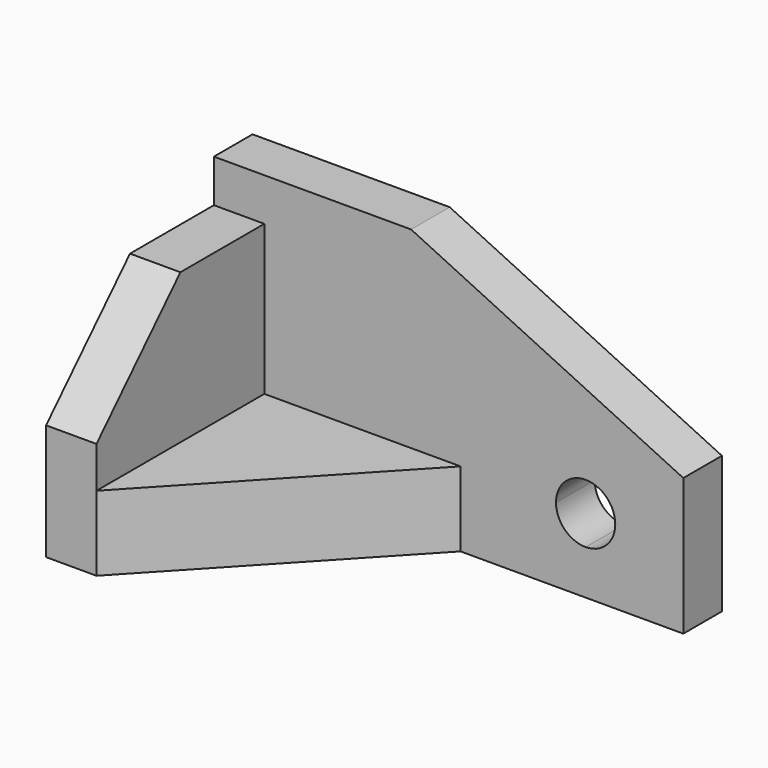
from build123d import *

# Parameters (mm, degrees)
F0_W      = 111.4934720099
F0_H      = 61.2878296524
F1_DEPTH  = 17.78
F2_W      = 111.4934720099
F2_H      = 11.4644090645
F3_DEPTH  = 45.72
F4_W      = 11.9753591716
F4_H      = 49.8234205879
F5_DEPTH  = 35.56
F7_DEPTH  = 25.4
F9_DEPTH  = 25.4
F11_DEPTH = 25.4
F13_DEPTH = 25.4


with BuildPart() as f1:
    # F0 (on Top) → F1 (new body)
    with BuildSketch(Plane.XY):
        with Locations((4.7015305609, -21.1568949744)):
            Rectangle(F0_W, F0_H)
    extrude(amount=F1_DEPTH)

    # F2 (on face) → F3 (join)
    with BuildSketch(Plane.XY.offset(17.78)):
        with Locations((4.7015305609, 3.7548153196)):
            Rectangle(F2_W, F2_H)
    extrude(amount=F3_DEPTH)

    # F4 (on face) → F5 (join)
    with BuildSketch(Plane.XY.offset(17.78)):
        with Locations((-45.0575258583, -26.8890995067)):
            Rectangle(F4_W, F4_H)
    extrude(amount=F5_DEPTH)

    # F6 (on face) → F7 (cut)
    with BuildSketch(Plane.YZ.offset(-39.0698462725)):
        Polygon((-51.8008098006, 27.5652259588), (-26.8890995067, 53.34), (-51.8008098006, 53.34), align=None)
    extrude(amount=-F7_DEPTH, mode=Mode.SUBTRACT)

    # F8 (on face) → F9 (cut)
    with BuildSketch(Plane.XZ.offset(1.9773892127)):
        Polygon((60.4482665658, 63.5), (-4.2021470144, 63.5), (60.4482665658, 32.5463265181), align=None)
    extrude(amount=-F9_DEPTH, mode=Mode.SUBTRACT)

    # F10 (on face) → F11 (cut)
    with BuildSketch(Plane.XY.offset(17.78)):
        Polygon((60.4482665658, -1.9773892127), (7.539015729, -1.9773892127), (-39.0698462725, -51.8008098006), (60.4482665658, -51.8008098006), align=None)
    extrude(amount=-F11_DEPTH, mode=Mode.SUBTRACT)

    # F12 (on face) → F13 (cut)
    with BuildSketch(Plane.XZ.offset(1.9773892127)):
        with BuildLine():
            Line((30.2101253638, 17.603026703), (37.2477211058, 17.603026703))
            Line((37.2477211058, 17.603026703), (37.2477211058, 24.640622445))
            ThreePointArc((37.2477211058, 24.640622445), (32.2713894334, 22.5793583754), (30.2101253638, 17.603026703))
        make_face()
        with BuildLine():
            Line((37.2477211058, 24.640622445), (37.2477211058, 17.603026703))
            Line((37.2477211058, 17.603026703), (44.2853168478, 17.603026703))
            ThreePointArc((44.2853168478, 17.603026703), (42.2240527782, 22.5793583754), (37.2477211058, 24.640622445))
        make_face()
        with BuildLine():
            Line((37.2477211058, 10.565430961), (37.2477211058, 17.603026703))
            Line((37.2477211058, 17.603026703), (30.2101253638, 17.603026703))
            ThreePointArc((30.2101253638, 17.603026703), (32.2713894334, 12.6266950306), (37.2477211058, 10.565430961))
        make_face()
        with BuildLine():
            Line((44.2853168478, 17.603026703), (37.2477211058, 17.603026703))
            Line((37.2477211058, 17.603026703), (37.2477211058, 10.565430961))
            ThreePointArc((37.2477211058, 10.565430961), (42.2240527782, 12.6266950306), (44.2853168478, 17.603026703))
        make_face()
    extrude(amount=-F13_DEPTH, mode=Mode.SUBTRACT)


solid = f1.part
